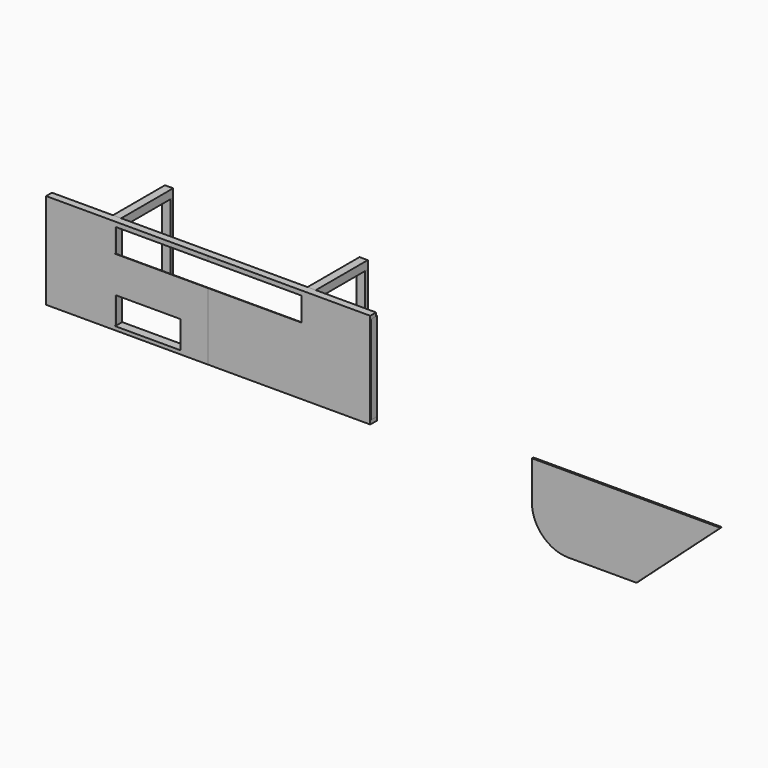
from build123d import *

# Parameters (mm, degrees)
F0_W      = 885.5
F0_H      = 523
F1_DEPTH  = 3
F2_W      = 885.5
F2_H      = 523
F3_DEPTH  = 3
F4_W      = 1020
F4_H      = 130
F5_DEPTH  = 25
F6_W      = 360
F6_H      = 150
F7_DEPTH  = 25
F8_W      = 37
F8_H      = 19
F8_W_2    = 45
F8_H_2    = 20
F9_DEPTH  = 1771
F10_W     = 44
F10_H     = 44
F11_DEPTH = 484
F12_W     = 45
F12_H     = 45
F13_DEPTH = 355
F14_W     = 45
F14_H     = 475
F15_DEPTH = 20
F17_DEPTH = 10


with BuildPart() as f1:
    # F0 (on Front) → F1 (new body)
    with BuildSketch(Plane.XZ):
        Rectangle(F0_W, F0_H)
    extrude(amount=F1_DEPTH)


with BuildPart() as f3:
    # F2 (on face) → F3 (new body)
    with BuildSketch(Plane.XZ.offset(3)):
        with Locations((885.5, 0)):
            Rectangle(F2_W, F2_H)
    extrude(amount=-F3_DEPTH)


with BuildPart() as f5_tool:
    # F4 (on face) → F5 (new body)
    with BuildSketch(Plane.XZ.offset(3)):
        with Locations((442.75, 171.5)):
            Rectangle(F4_W, F4_H)
    extrude(amount=-F5_DEPTH)


with BuildPart() as f1_1:
    add(f1.part)

    # F5: cut by f5_tool
    add(f5_tool.part, mode=Mode.SUBTRACT)

    # F6 (on face) → F7 (cut)
    with BuildSketch(Plane.XZ.offset(3)):
        with Locations((112.75, -166.5)):
            Rectangle(F6_W, F6_H)
    extrude(amount=-F7_DEPTH, mode=Mode.SUBTRACT)


with BuildPart() as f3_1:
    add(f3.part)

    # F5: cut by f5_tool
    add(f5_tool.part, mode=Mode.SUBTRACT)


with BuildPart() as f9:
    # F8 (on face) → F9 (new body)
    with BuildSketch(Plane.YZ.offset(1328.25)):
        with Locations((18.5, 252)):
            Rectangle(F8_W, F8_H)
        with Locations((22.5, -251.5)):
            Rectangle(F8_W_2, F8_H_2)
    extrude(amount=-F9_DEPTH)


with BuildPart() as f11:
    # F10 (on face) → F11 (new body)
    with BuildSketch(Plane.XY.offset(-241.5)):
        with Locations((-420.75, 23)):
            Rectangle(F10_W, F10_H)
        with Locations((-87.25, 23)):
            Rectangle(F10_W, F10_H)
        with Locations((976.75, 23)):
            Rectangle(F10_W, F10_H)
        with Locations((1306.25, 23)):
            Rectangle(F10_W, F10_H)
    extrude(amount=F11_DEPTH)


with BuildPart() as f13:
    # F12 (on face) → F13 (new body)
    with BuildSketch(Plane(origin=(0, 37, 0), x_dir=(-1, 0, 0), z_dir=(0, 1, 0))):
        with Locations((-976.25, 239)):
            Rectangle(F12_W, F12_H)
        with Locations((86.75, 239)):
            Rectangle(F12_W, F12_H)
    extrude(amount=F13_DEPTH)


with BuildPart() as f15:
    # F14 (on face) → F15 (new body)
    with BuildSketch(Plane(origin=(0, 392, 0), x_dir=(-1, 0, 0), z_dir=(0, 1, 0))):
        with Locations((-976.25, -21)):
            Rectangle(F14_W, F14_H)
        with Locations((86.75, -21)):
            Rectangle(F14_W, F14_H)
    extrude(amount=-F15_DEPTH)


with BuildPart() as f17:
    # F16 (on face) → F17 (new body)
    with BuildSketch(Plane.XZ.offset(3)):
        with BuildLine():
            ThreePointArc((2211.816654, -349.55343), (2270.395298, -490.974787), (2411.816654, -549.55343))
            Line((2411.816654, -549.55343), (2783.133686, -549.55343))
            Line((2783.133686, -549.55343), (3241.816654, -136.55343))
            Line((3241.816654, -136.55343), (2211.816654, -136.55343))
            Line((2211.816654, -136.55343), (2211.816654, -349.55343))
        make_face()
    extrude(amount=-F17_DEPTH)


solid = Compound([f1_1.part, f3_1.part, f9.part, f11.part, f13.part, f15.part, f17.part])
